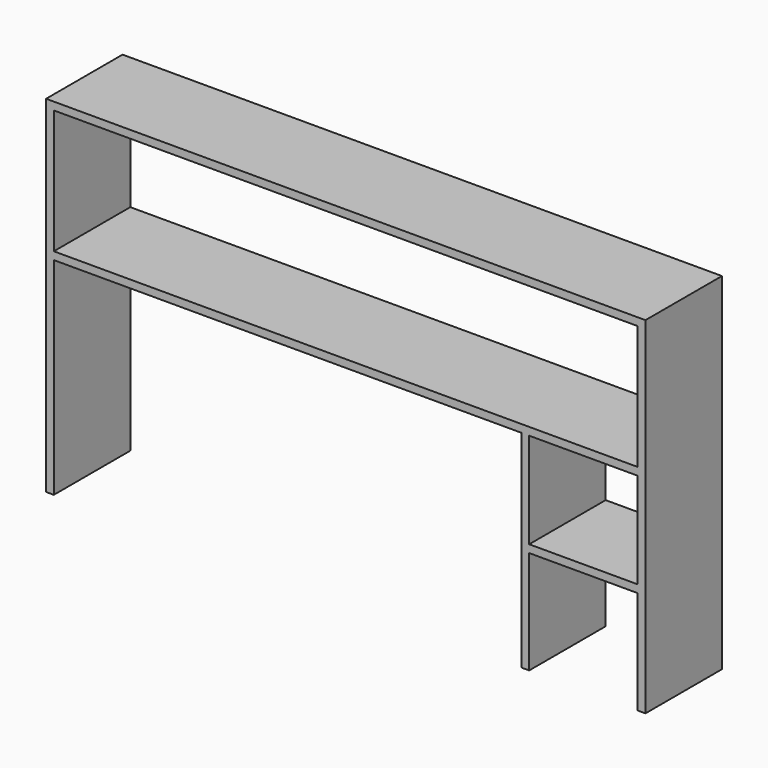
from build123d import *

# Parameters (mm, degrees)
F0_W     = 266.7
F0_H     = 234.95
F0_W_2   = 1435.1
F0_H_2   = 304.8
F1_DEPTH = 234.95


with BuildPart() as f1:
    # F0 (on Front) → F1 (new body)
    with BuildSketch(Plane.XZ):
        Polygon((736.6, 342.9), (-736.6, 342.9), (-736.6, -508), (-717.55, -508), (-717.55, 0), (431.8, 0), (431.8, -508), (450.85, -508), (450.85, -254), (717.55, -254), (717.55, -508), (736.6, -508), align=None)
        with Locations((584.2, -117.475)):
            Rectangle(F0_W, F0_H, mode=Mode.SUBTRACT)
        with Locations((0, 171.45)):
            Rectangle(F0_W_2, F0_H_2, mode=Mode.SUBTRACT)
    extrude(amount=F1_DEPTH)


solid = f1.part
